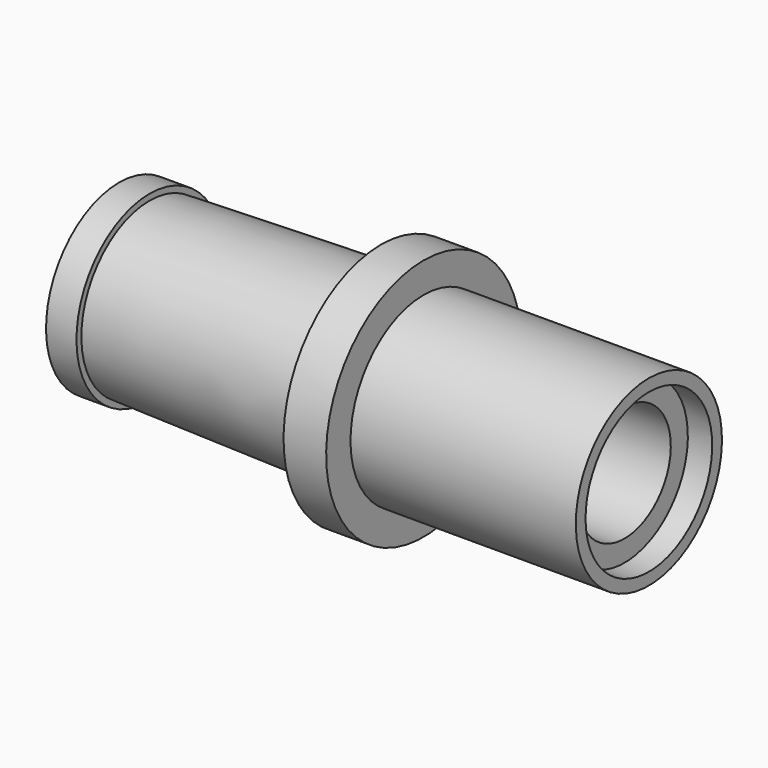
from build123d import *


with BuildPart() as f1:
    # F0 (on Front) → F1 (revolve)
    with BuildSketch(Plane.XZ):
        Polygon((0, 1.27), (0, 0), (-9.652, -0.254), (-9.652, 0), (-10.922, 0), (-10.922, -0.635), (-4.572, -0.635), (-4.572, -1.397), (0.254, -1.397), (0.254, -3.81), (1.778, -3.81), (1.778, -1.397), (10.16, -1.397), (10.16, -0.508), (11.176, -0.508), (11.176, 0), (1.778, 0), (1.778, 1.27), align=None)
    revolve(axis=Axis((1.016, 0, -3.81), (-1, 0, 0)))


solid = f1.part
